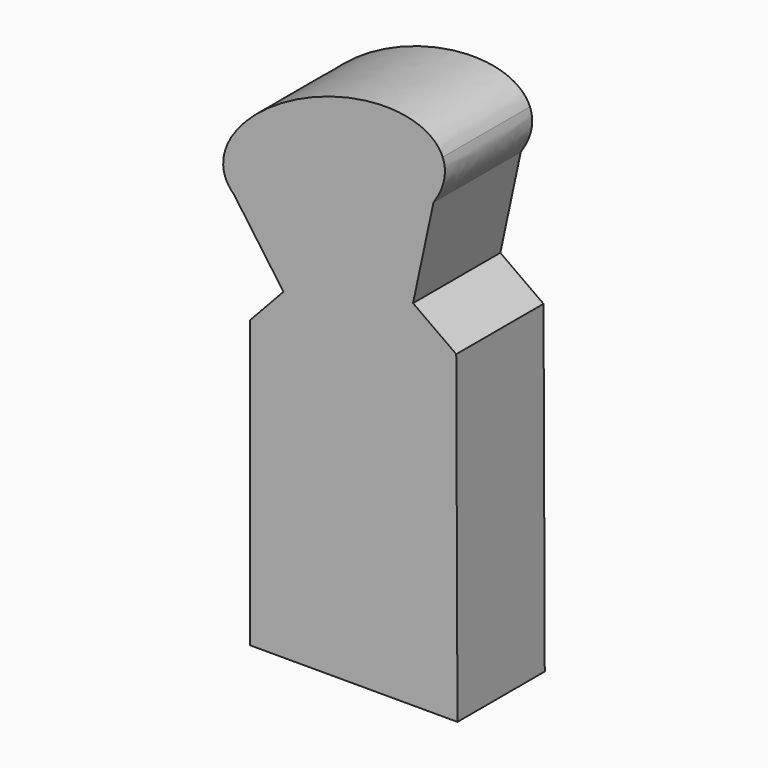
from build123d import *

# Parameters (mm, degrees)
F1_DEPTH = 25.4


with BuildPart() as f1:
    # F0 (on Front) → F1 (new body)
    with BuildSketch(Plane.XZ):
        with BuildLine():
            Line((34.919691, 52.783182), (37.060292, 62.772654))
            add(Edge.make_bspline(
                [(37.060292, 62.772654), (31.861938, 75.479746), (6.580499, 65.137341), (-18.700941, 54.794937), (-13.502587, 42.087846)],
                knots=[3.141593, 3.141593, 3.141593, 4.712389, 4.712389, 6.283185, 6.283185, 6.283185], degree=2, weights=[1, 0.707107, 1, 0.707107, 1]))
            Line((-13.502587, 42.087846), (-11.599344, 39.415206))
            add(Edge.make_bspline(
                [(-11.599344, 39.415206), (11.14691, 18.718703), (34.919691, 52.783182)],
                knots=[0.234814, 0.234814, 0.234814, 2.479971, 2.479971, 2.479971], degree=2, weights=[1, 0.43336, 1]))
        make_face()
        with BuildLine():
            add(Edge.make_bspline(
                [(34.919691, 52.783182), (38.845567, 58.408647), (37.060292, 62.772654)],
                knots=[2.479971, 2.479971, 2.479971, 3.141593, 3.141593, 3.141593], degree=2, weights=[1, 0.945779, 1]))
            Line((37.060292, 62.772654), (34.919691, 52.783182))
        make_face()
        with BuildLine():
            Line((-11.599344, 39.415206), (-13.502587, 42.087846))
            add(Edge.make_bspline(
                [(-13.502587, 42.087846), (-12.889443, 40.589051), (-11.599344, 39.415206)],
                knots=[0, 0, 0, 0.234814, 0.234814, 0.234814], degree=2, weights=[1, 0.993116, 1]))
        make_face()
        with BuildLine():
            Line((30.165354, 30.596284), (34.919691, 52.783182))
            add(Edge.make_bspline(
                [(-11.599344, 39.415206), (11.14691, 18.718703), (34.919691, 52.783182)],
                knots=[0.234814, 0.234814, 0.234814, 2.479971, 2.479971, 2.479971], degree=2, weights=[1, 0.43336, 1]))
            Line((-11.599344, 39.415206), (0, 23.126768))
            Line((0, 23.126768), (-7.756804, 14.795386))
            Line((-7.756804, 14.795386), (-7.756804, -51.855676))
            Line((-7.756804, -51.855676), (40.507756, -51.855676))
            Line((40.507756, -51.855676), (40.220469, 23.414057))
            Line((40.220469, 23.414057), (30.165354, 30.596284))
        make_face()
    extrude(amount=F1_DEPTH)


solid = f1.part
